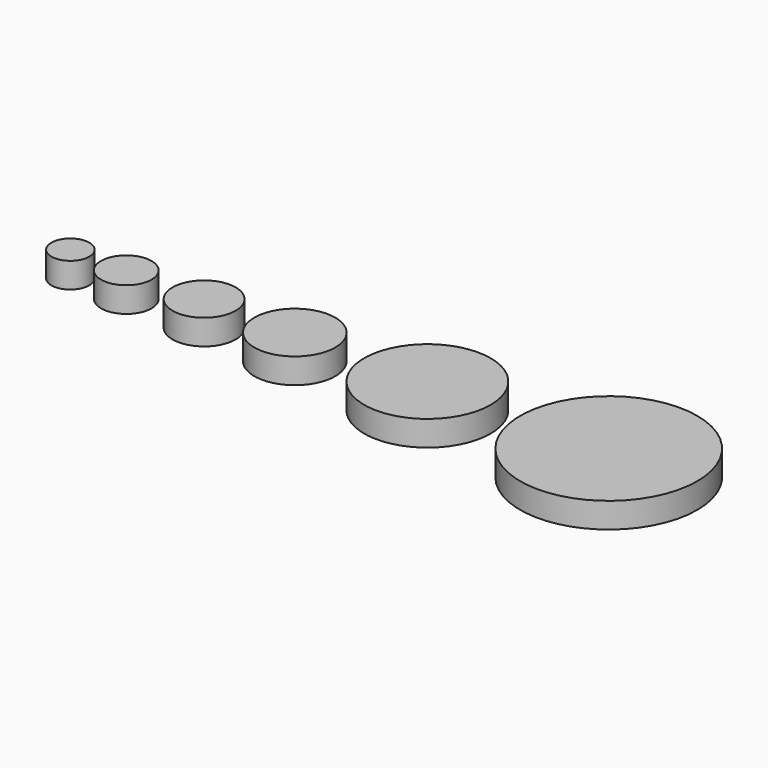
from build123d import *

# Parameters (mm, degrees)
F0_R      = 15
F1_DEPTH  = 20
F2_R      = 20
F3_DEPTH  = 20
F4_R      = 25
F5_DEPTH  = 20
F6_R      = 32
F7_DEPTH  = 20
F8_R      = 50
F9_DEPTH  = 20
F10_R     = 70
F11_DEPTH = 20


with BuildPart() as f1:
    # F0 (on Top) → F1 (new body)
    with BuildSketch(Plane.XY):
        Circle(F0_R)
    extrude(amount=F1_DEPTH)


with BuildPart() as f3:
    # F2 (on Top) → F3 (new body)
    with BuildSketch(Plane.XY):
        with Locations((44.195835, 0)):
            Circle(F2_R)
    extrude(amount=F3_DEPTH)


with BuildPart() as f5:
    # F4 (on Top) → F5 (new body)
    with BuildSketch(Plane.XY):
        with Locations((105.719917, 0)):
            Circle(F4_R)
    extrude(amount=F5_DEPTH)


with BuildPart() as f7:
    # F6 (on Top) → F7 (new body)
    with BuildSketch(Plane.XY):
        with Locations((177.414373, 0)):
            Circle(F6_R)
    extrude(amount=F7_DEPTH)


with BuildPart() as f9:
    # F8 (on Top) → F9 (new body)
    with BuildSketch(Plane.XY):
        with Locations((282.248229, 0)):
            Circle(F8_R)
    extrude(amount=F9_DEPTH)


with BuildPart() as f11:
    # F10 (on Top) → F11 (new body)
    with BuildSketch(Plane.XY):
        with Locations((425.602103, 0)):
            Circle(F10_R)
    extrude(amount=F11_DEPTH)


solid = Compound([f1.part, f3.part, f5.part, f7.part, f9.part, f11.part])
